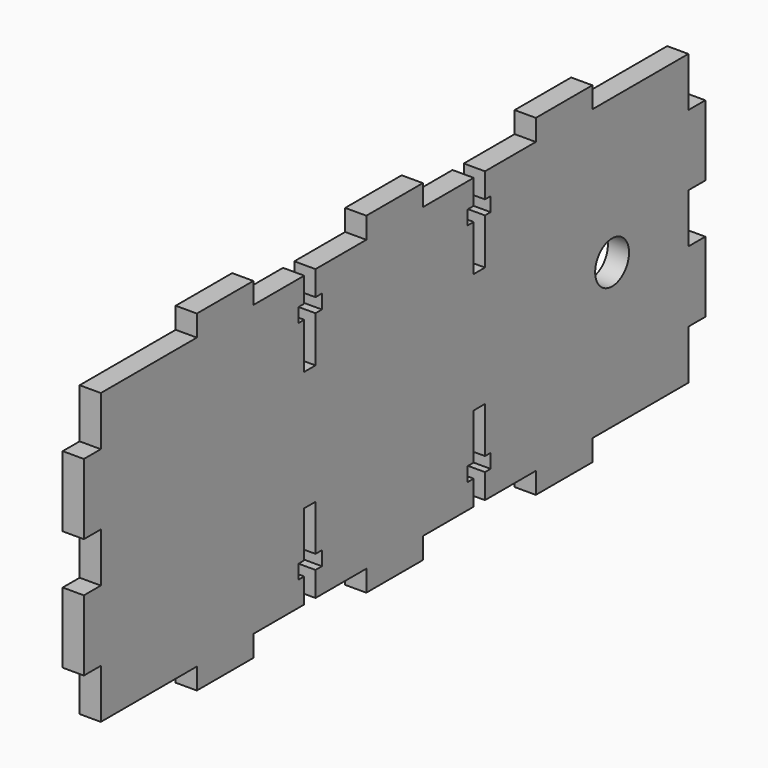
from build123d import *

# Parameters (mm, degrees)
F0_R     = 3
F1_DEPTH = 3


with BuildPart() as f1:
    # F0 (on Right) → F1 (new body)
    with BuildSketch(Plane.YZ):
        Polygon((0, 7), (0, 0), (17, 0), (17, -3), (27, -3), (27, 0), (36, 0), (36, 3.5), (35, 3.5), (35, 5.5), (36, 5.5), (36, 12), (38, 12), (38, 5.5), (39.137598, 5.5), (39.137598, 3.5), (38, 3.5), (38, 0), (47, 0), (47, -3), (52, -3), (57, -3), (57, 0), (66, 0), (66, 3.5), (64.862402, 3.5), (64.862402, 5.5), (66, 5.5), (66, 12), (68, 12), (68, 5.5), (69, 5.5), (69, 3.5), (68, 3.5), (68, 0), (77, 0), (77, -3), (87, -3), (87, 0), (104, 0), (104, 7), (107, 7), (107, 17), (104, 17), (104, 20.5), (104, 24), (107, 24), (107, 34), (104, 34), (104, 41), (87, 41), (87, 44), (77, 44), (77, 41), (68, 41), (68, 37.5), (69, 37.5), (69, 35.5), (68, 35.5), (68, 29), (66, 29), (66, 35.5), (64.862402, 35.5), (64.862402, 37.5), (66, 37.5), (66, 41), (57, 41), (57, 44), (52, 44), (47, 44), (47, 41), (38, 41), (38, 37.5), (39.137598, 37.5), (39.137598, 35.5), (38, 35.5), (38, 29), (36, 29), (36, 35.5), (35, 35.5), (35, 37.5), (36, 37.5), (36, 41), (27, 41), (27, 44), (17, 44), (17, 41), (0, 41), (0, 34), (-3, 34), (-3, 24), (0, 24), (0, 20.5), (0, 17), (-3, 17), (-3, 7), align=None)
        with Locations((90.5, 20.5)):
            Circle(F0_R, mode=Mode.SUBTRACT)
    extrude(amount=F1_DEPTH)


solid = f1.part
